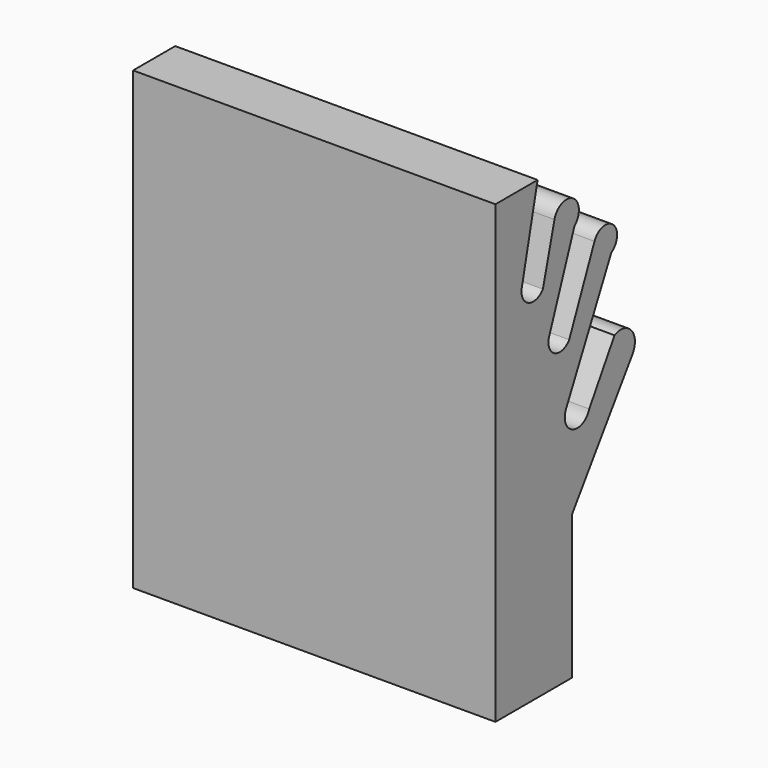
from build123d import *

# Parameters (mm, degrees)
F1_DEPTH = 127


with BuildPart() as f1:
    # F0 (on Right) → F1 (new body)
    with BuildSketch(Plane.YZ):
        with BuildLine():
            Line((-48.929181, 61.623078), (-67.393027, 61.623078))
            Line((-67.393027, 61.623078), (-67.393027, -98.089159))
            Line((-67.393027, -98.089159), (-33.93315, -98.089159))
            Line((-33.93315, -98.089159), (-33.93315, -47.811495))
            Line((-33.93315, -47.811495), (-7.385537, -9.11652))
            ThreePointArc((-7.385537, -9.11652), (-7.800447, -1.53815), (-15.232671, 0))
            Line((-15.232671, 0), (-26.310977, -18.23304))
            ThreePointArc((-26.310977, -18.23304), (-33.618065, -21.605825), (-36.466088, -14.078676))
            Line((-36.466088, -14.078676), (-16.617458, 26.080182))
            ThreePointArc((-16.617458, 26.080182), (-15.863933, 34.392833), (-24.002995, 32.542527))
            Line((-24.002995, 32.542527), (-35.081301, 6.693146))
            ThreePointArc((-35.081301, 6.693146), (-41.501132, 5.135256), (-43.851625, 11.309107))
            Line((-43.851625, 11.309107), (-32.77332, 40.851254))
            ThreePointArc((-32.77332, 40.851254), (-33.374387, 49.612313), (-41.543644, 46.390408))
            Line((-41.543644, 46.390408), (-46.621203, 27.003372))
            ThreePointArc((-46.621203, 27.003372), (-52.936608, 25.304014), (-55.853125, 31.157738))
            Line((-55.853125, 31.157738), (-48.929181, 61.623078))
        make_face()
    extrude(amount=F1_DEPTH)


solid = f1.part
